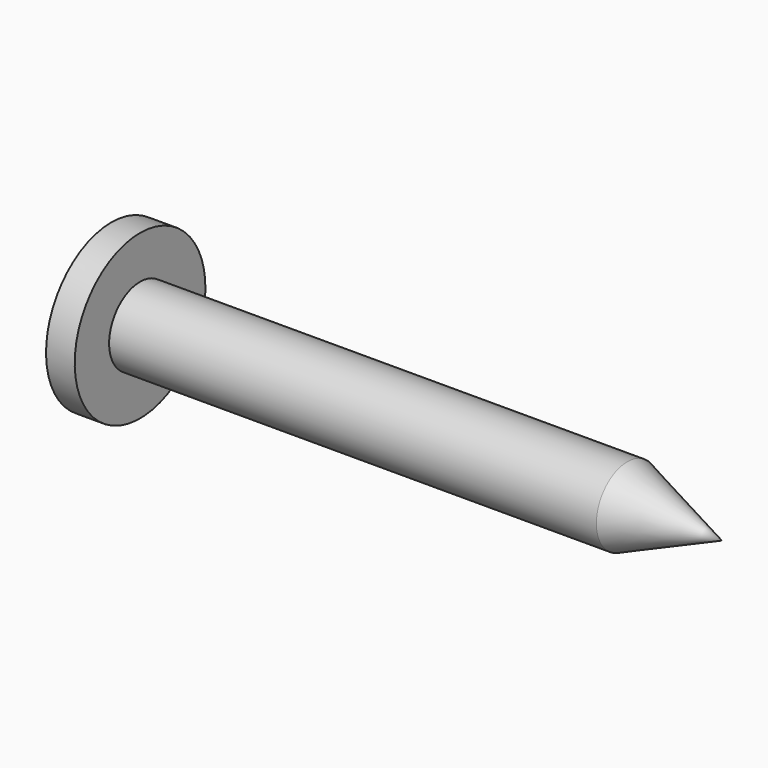
from build123d import *

# Parameters (mm, degrees)
F0_W = 48.4909121878
F0_H = 3.8507485297


with BuildPart() as f1:
    # F0 (on Front) → F1 (revolve)
    with BuildSketch(Plane.XZ):
        with Locations((16.5439581033, 1.9253742648)):
            Rectangle(F0_W, F0_H)
        Polygon((40.7894141972, 3.8507485297), (40.7894141972, 0), (50.2023510635, 0), align=None)
    revolve(axis=Axis((16.5439581033, 0, 0), (1, 0, 0)))

    # F0 (on Front) → F2 (revolve)
    with BuildSketch(Plane.XZ):
        Polygon((-10.5539038777, 0), (-7.7014979906, 0), (-7.7014979906, 3.8507485297), (-7.7014979906, 8.1293582916), (-10.5539038777, 8.1293582916), align=None)
    revolve(axis=Axis((-9.1277009342, 0, 0), (-1, 0, 0)))


solid = f1.part
